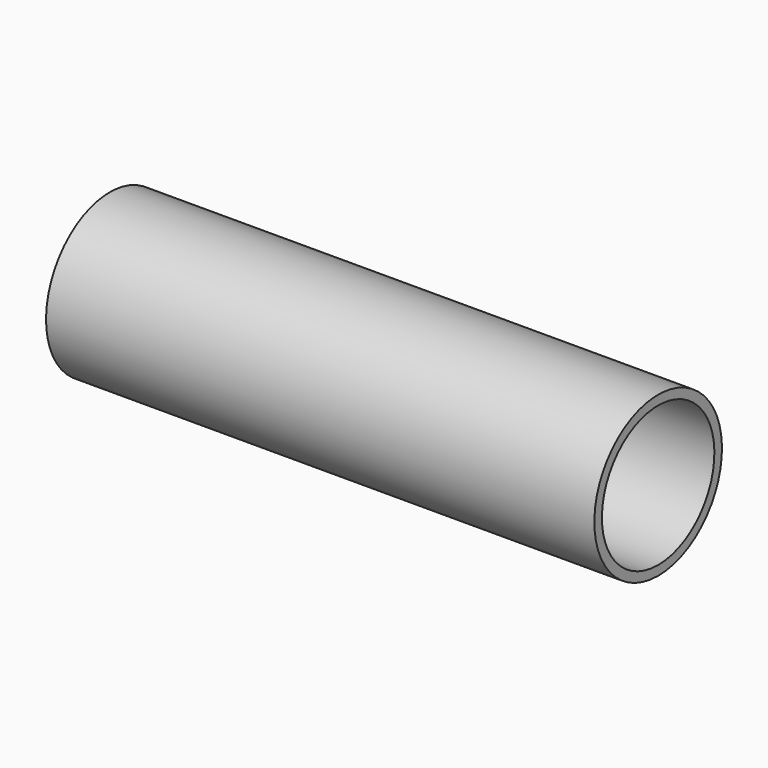
from build123d import *

# Parameters (mm, degrees)
F0_W     = 550
F0_H     = 9.5
F1_ANGLE = 180


with BuildPart() as f1:
    # F0 (on Front) → F1 (revolve)
    with BuildSketch(Plane.XZ):
        with Locations((0, 75.25)):
            Rectangle(F0_W, F0_H)
        with Locations((0, -75.25)):
            Rectangle(F0_W, F0_H)
    revolve(axis=Axis((219.519368, 0, 0), (1, 0, 0)), revolution_arc=F1_ANGLE)


with BuildPart() as f2_1:
    # F2: copy of F1
    add(f1.part)


solid = Compound([f1.part, f2_1.part])
